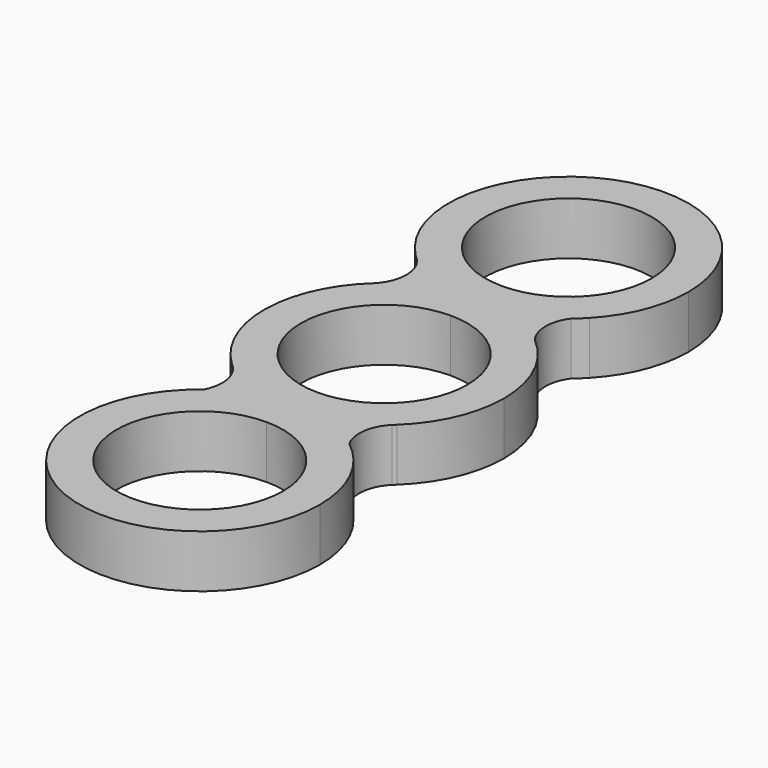
from build123d import *

# Parameters (mm, degrees)
F1_DEPTH = 6.985
F2_DEPTH = 6.985


with BuildPart() as f1:
    # F0 (on Top) → F1 (new body)
    with BuildSketch(Plane.XY):
        with BuildLine():
            Line((0, 15.875), (0, 14.605))
            ThreePointArc((0, 14.605), (2.2450640303, 14.7645517881), (4.445, 15.24))
            ThreePointArc((4.445, 15.24), (2.2450640303, 15.7154482119), (0, 15.875))
        make_face()
        with BuildLine():
            ThreePointArc((-4.445, 15.24), (-2.2450640303, 14.7645517881), (0, 14.605))
            Line((0, 14.605), (0, 15.875))
            ThreePointArc((0, 15.875), (-2.2450640303, 15.7154482119), (-4.445, 15.24))
        make_face()
        with BuildLine():
            Line((0, -15.875), (0, -14.605))
            ThreePointArc((0, -14.605), (-2.2450640303, -14.7645517881), (-4.445, -15.24))
            ThreePointArc((-4.445, -15.24), (-2.2450640303, -15.7154482119), (0, -15.875))
        make_face()
        with BuildLine():
            ThreePointArc((4.445, -15.24), (2.2450640303, -14.7645517881), (0, -14.605))
            Line((0, -14.605), (0, -15.875))
            ThreePointArc((0, -15.875), (2.2450640303, -15.7154482119), (4.445, -15.24))
        make_face()
        with BuildLine():
            ThreePointArc((0, -11.0109), (-11.0109, 0), (0, 11.0109))
            Line((0, 11.0109), (0, 14.605))
            ThreePointArc((0, 14.605), (-2.2450640303, 14.7645517881), (-4.445, 15.24))
            ThreePointArc((-4.445, 15.24), (-7.7179285658, 13.8726062315), (-10.6055411699, 11.8126255123))
            ThreePointArc((-10.6055411699, 11.8126255123), (-15.8737141087, 0.2020529542), (-10.9027768874, -11.5388509455))
            ThreePointArc((-10.9027768874, -11.5388509455), (-10.6764801033, -11.7329434022), (-10.4619588639, -11.9399766219))
            ThreePointArc((-10.4619588639, -11.9399766219), (-7.6339304566, -13.919006099), (-4.445, -15.24))
            ThreePointArc((-4.445, -15.24), (-2.2450640303, -14.7645517881), (0, -14.605))
            Line((0, -14.605), (0, -11.0109))
        make_face()
        with BuildLine():
            ThreePointArc((0, 11.0109), (7.785882057, 7.785882057), (11.0109, 0))
            ThreePointArc((11.0109, 0), (7.785882057, -7.785882057), (0, -11.0109))
            Line((0, -11.0109), (0, -14.605))
            ThreePointArc((0, -14.605), (2.2450640303, -14.7645517881), (4.445, -15.24))
            ThreePointArc((4.445, -15.24), (7.6725040661, -13.897780627), (10.5280263251, -11.8817627774))
            ThreePointArc((10.5280263251, -11.8817627774), (10.7229578197, -11.6931817512), (10.9276762517, -11.5152731942))
            ThreePointArc((10.9276762517, -11.5152731942), (14.5858233483, -6.2665287242), (15.875, 0))
            ThreePointArc((15.875, 0), (14.3832859591, 6.7183859683), (10.188485352, 12.1741690161))
            ThreePointArc((10.188485352, 12.1741690161), (7.4755971863, 14.0046803501), (4.445, 15.24))
            ThreePointArc((4.445, 15.24), (2.2450640303, 14.7645517881), (0, 14.605))
            Line((0, 14.605), (0, 11.0109))
        make_face()
        with BuildLine():
            ThreePointArc((4.445, -15.24), (2.2450640303, -15.7154482119), (0, -15.875))
            ThreePointArc((0, -15.875), (-2.2450640303, -15.7154482119), (-4.445, -15.24))
            ThreePointArc((-4.445, -15.24), (-7.1320670392, -16.2972906415), (-9.5831624007, -17.823830619))
            ThreePointArc((-9.5831624007, -17.823830619), (-7.0669272633, -44.6952792465), (15.875, -30.48))
            ThreePointArc((15.875, -30.48), (14.2580065027, -23.4996794079), (9.7364329992, -17.9413598245))
            ThreePointArc((9.7364329992, -17.9413598245), (7.2182128469, -16.3409396247), (4.445, -15.24))
        make_face()
        with BuildLine():
            ThreePointArc((11.0109, -30.48), (-7.785882057, -38.265882057), (0, -19.4691))
            ThreePointArc((0, -19.4691), (7.785882057, -22.694117943), (11.0109, -30.48))
        make_face(mode=Mode.SUBTRACT)
        with BuildLine():
            ThreePointArc((-4.445, 15.24), (-2.2450640303, 15.7154482119), (0, 15.875))
            ThreePointArc((0, 15.875), (2.2450640303, 15.7154482119), (4.445, 15.24))
            ThreePointArc((4.445, 15.24), (7.4374400281, 16.4550183306), (10.1220432287, 18.2505328867))
            ThreePointArc((10.1220432287, 18.2505328867), (10.7577127256, 18.9684394589), (11.5169632943, 19.5541050033))
            ThreePointArc((11.5169632943, 19.5541050033), (14.7452944578, 24.5985107029), (15.875, 30.48))
            ThreePointArc((15.875, 30.48), (-6.0542794063, 45.1551942362), (-11.2571355427, 19.2865856695))
            ThreePointArc((-11.2571355427, 19.2865856695), (-10.8608812375, 18.9498902987), (-10.5011212887, 18.574451853))
            ThreePointArc((-10.5011212887, 18.574451853), (-7.6567798508, 16.5735501541), (-4.445, 15.24))
        make_face()
        with BuildLine():
            ThreePointArc((11.0109, 30.48), (7.785882057, 22.694117943), (0, 19.4691))
            ThreePointArc((0, 19.4691), (-7.785882057, 38.265882057), (11.0109, 30.48))
        make_face(mode=Mode.SUBTRACT)
    extrude(amount=F1_DEPTH)

    # F0 (on Top) → F2 (join)
    with BuildSketch(Plane.XY):
        with BuildLine():
            ThreePointArc((0, 11.0109), (7.785882057, 7.785882057), (11.0109, 0))
            ThreePointArc((11.0109, 0), (7.785882057, -7.785882057), (0, -11.0109))
            Line((0, -11.0109), (0, -14.605))
            ThreePointArc((0, -14.605), (2.2450640303, -14.7645517881), (4.445, -15.24))
            ThreePointArc((4.445, -15.24), (7.6725040661, -13.897780627), (10.5280263251, -11.8817627774))
            ThreePointArc((10.5280263251, -11.8817627774), (10.7229578197, -11.6931817512), (10.9276762517, -11.5152731942))
            ThreePointArc((10.9276762517, -11.5152731942), (14.5858233483, -6.2665287242), (15.875, 0))
            ThreePointArc((15.875, 0), (14.3832859591, 6.7183859683), (10.188485352, 12.1741690161))
            ThreePointArc((10.188485352, 12.1741690161), (7.4755971863, 14.0046803501), (4.445, 15.24))
            ThreePointArc((4.445, 15.24), (2.2450640303, 14.7645517881), (0, 14.605))
            Line((0, 14.605), (0, 11.0109))
        make_face()
        with BuildLine():
            ThreePointArc((0, -11.0109), (-11.0109, 0), (0, 11.0109))
            Line((0, 11.0109), (0, 14.605))
            ThreePointArc((0, 14.605), (-2.2450640303, 14.7645517881), (-4.445, 15.24))
            ThreePointArc((-4.445, 15.24), (-7.7179285658, 13.8726062315), (-10.6055411699, 11.8126255123))
            ThreePointArc((-10.6055411699, 11.8126255123), (-15.8737141087, 0.2020529542), (-10.9027768874, -11.5388509455))
            ThreePointArc((-10.9027768874, -11.5388509455), (-10.6764801033, -11.7329434022), (-10.4619588639, -11.9399766219))
            ThreePointArc((-10.4619588639, -11.9399766219), (-7.6339304566, -13.919006099), (-4.445, -15.24))
            ThreePointArc((-4.445, -15.24), (-2.2450640303, -14.7645517881), (0, -14.605))
            Line((0, -14.605), (0, -11.0109))
        make_face()
        with BuildLine():
            ThreePointArc((-4.445, 15.24), (-2.2450640303, 15.7154482119), (0, 15.875))
            ThreePointArc((0, 15.875), (2.2450640303, 15.7154482119), (4.445, 15.24))
            ThreePointArc((4.445, 15.24), (7.4374400281, 16.4550183306), (10.1220432287, 18.2505328867))
            ThreePointArc((10.1220432287, 18.2505328867), (10.7577127256, 18.9684394589), (11.5169632943, 19.5541050033))
            ThreePointArc((11.5169632943, 19.5541050033), (14.7452944578, 24.5985107029), (15.875, 30.48))
            ThreePointArc((15.875, 30.48), (-6.0542794063, 45.1551942362), (-11.2571355427, 19.2865856695))
            ThreePointArc((-11.2571355427, 19.2865856695), (-10.8608812375, 18.9498902987), (-10.5011212887, 18.574451853))
            ThreePointArc((-10.5011212887, 18.574451853), (-7.6567798508, 16.5735501541), (-4.445, 15.24))
        make_face()
        with BuildLine():
            ThreePointArc((11.0109, 30.48), (7.785882057, 22.694117943), (0, 19.4691))
            ThreePointArc((0, 19.4691), (-7.785882057, 38.265882057), (11.0109, 30.48))
        make_face(mode=Mode.SUBTRACT)
        with BuildLine():
            ThreePointArc((-10.6055411699, 11.8126255123), (-7.7179285658, 13.8726062315), (-4.445, 15.24))
            ThreePointArc((-4.445, 15.24), (-7.6567798508, 16.5735501541), (-10.5011212887, 18.574451853))
            ThreePointArc((-10.5011212887, 18.574451853), (-9.2646720581, 15.1736384914), (-10.6055411699, 11.8126255123))
        make_face()
        with BuildLine():
            ThreePointArc((10.1220432287, 18.2505328867), (7.4374400281, 16.4550183306), (4.445, 15.24))
            ThreePointArc((4.445, 15.24), (7.4755971863, 14.0046803501), (10.188485352, 12.1741690161))
            ThreePointArc((10.188485352, 12.1741690161), (9.1465341041, 15.2013209708), (10.1220432287, 18.2505328867))
        make_face()
        with BuildLine():
            ThreePointArc((4.445, -15.24), (2.2450640303, -15.7154482119), (0, -15.875))
            ThreePointArc((0, -15.875), (-2.2450640303, -15.7154482119), (-4.445, -15.24))
            ThreePointArc((-4.445, -15.24), (-7.1320670392, -16.2972906415), (-9.5831624007, -17.823830619))
            ThreePointArc((-9.5831624007, -17.823830619), (-7.0669272633, -44.6952792465), (15.875, -30.48))
            ThreePointArc((15.875, -30.48), (14.2580065027, -23.4996794079), (9.7364329992, -17.9413598245))
            ThreePointArc((9.7364329992, -17.9413598245), (7.2182128469, -16.3409396247), (4.445, -15.24))
        make_face()
        with BuildLine():
            ThreePointArc((11.0109, -30.48), (-7.785882057, -38.265882057), (0, -19.4691))
            ThreePointArc((0, -19.4691), (7.785882057, -22.694117943), (11.0109, -30.48))
        make_face(mode=Mode.SUBTRACT)
        with BuildLine():
            ThreePointArc((10.5280263251, -11.8817627774), (7.6725040661, -13.897780627), (4.445, -15.24))
            ThreePointArc((4.445, -15.24), (7.2182128469, -16.3409396247), (9.7364329992, -17.9413598245))
            ThreePointArc((9.7364329992, -17.9413598245), (9.119170131, -14.7792206259), (10.5280263251, -11.8817627774))
        make_face()
        with BuildLine():
            ThreePointArc((-9.5831624007, -17.823830619), (-7.1320670392, -16.2972906415), (-4.445, -15.24))
            ThreePointArc((-4.445, -15.24), (-7.6339304566, -13.919006099), (-10.4619588639, -11.9399766219))
            ThreePointArc((-10.4619588639, -11.9399766219), (-9.0711708687, -14.7398066276), (-9.5831624007, -17.823830619))
        make_face()
        with BuildLine():
            ThreePointArc((-11.2571355427, 19.2865856695), (-10.8849537771, 18.9243344514), (-10.5011212887, 18.574451853))
            ThreePointArc((-10.5011212887, 18.574451853), (-10.8608812375, 18.9498902987), (-11.2571355427, 19.2865856695))
        make_face()
        with BuildLine():
            ThreePointArc((11.5169632943, 19.5541050033), (10.7577127256, 18.9684394589), (10.1220432287, 18.2505328867))
            ThreePointArc((10.1220432287, 18.2505328867), (10.8391178558, 18.881329856), (11.5169632943, 19.5541050033))
        make_face()
        with BuildLine():
            ThreePointArc((10.9276762517, -11.5152731942), (10.7229578197, -11.6931817512), (10.5280263251, -11.8817627774))
            ThreePointArc((10.5280263251, -11.8817627774), (10.7294161966, -11.7002244885), (10.9276762517, -11.5152731942))
        make_face()
        with BuildLine():
            ThreePointArc((-10.9027768874, -11.5388509455), (-10.6842505064, -11.7414827052), (-10.4619588639, -11.9399766219))
            ThreePointArc((-10.4619588639, -11.9399766219), (-10.6764801033, -11.7329434022), (-10.9027768874, -11.5388509455))
        make_face()
    extrude(amount=F2_DEPTH)


solid = f1.part
